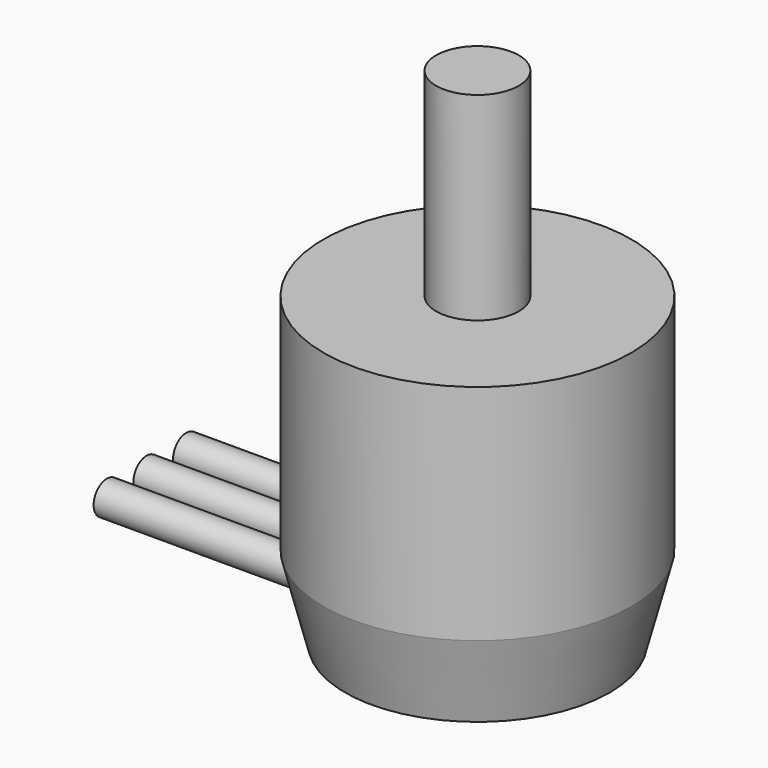
from build123d import *

# Parameters (mm, degrees)
F0_R      = 9.3
F4_DEPTH  = 18.5
F2_R      = 2.5
F5_DEPTH  = 30.5
F3_R      = 2
F6_DEPTH  = 1.75
F7_SIZE2  = 1.3
F7_SIZE   = 5
F8_R      = 1
F9_DEPTH  = 20
F10_D     = 2
F10_DEPTH = 2
F10_TIP   = 0.600860619


with BuildPart() as f4:
    # F0 (on Top) → F4 (new body)
    with BuildSketch(Plane.XY):
        Circle(F0_R)
    extrude(amount=F4_DEPTH)

    # F2 (on Top) → F5 (join)
    with BuildSketch(Plane.XY):
        Circle(F2_R)
    extrude(amount=F5_DEPTH)

    # F3 (on Top) → F6 (join)
    with BuildSketch(Plane.XY):
        Circle(F3_R)
    extrude(amount=-F6_DEPTH)

    # F7
    f7_edges = [f4.edges().sort_by_distance(p)[0] for p in [
        (-9.3, 0, 0),
    ]]
    f7_side = f4.faces().sort_by_distance((-9.3, 0, 9.25))[0]
    chamfer(f7_edges, length=F7_SIZE, length2=F7_SIZE2, reference=f7_side)

    # F8 (on Right) → F9 (join)
    with BuildSketch(Plane.YZ):
        with Locations((0, 2.5)):
            Circle(F8_R)
        with Locations((-3, 2.5)):
            Circle(F8_R)
        with Locations((3, 2.5)):
            Circle(F8_R)
    extrude(amount=-F9_DEPTH)

    # F10
    with Locations(Plane(origin=(0, 0, 0), x_dir=(1, 0, 0), z_dir=(0, 0, -1))):
        with Locations((-4.2426406871, -4.2426406871), (-4.2426406871, 4.2426406871), (4.2426406871, 4.2426406871), (4.2426406871, -4.2426406871)):
            Hole(F10_D / 2, depth=F10_DEPTH)
            with Locations((0, 0, -(F10_DEPTH + F10_TIP / 2))):  # 118° drill point
                Cone(0, F10_D / 2, F10_TIP, mode=Mode.SUBTRACT)


solid = f4.part
